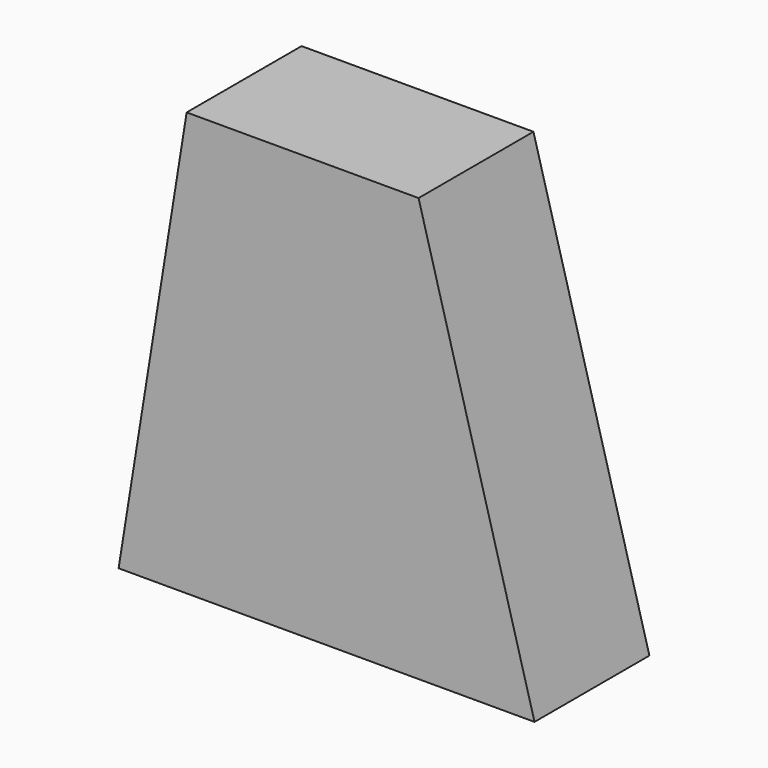
from build123d import *

# Parameters (mm, degrees)
F0_W     = 41.015632
F0_H     = 74.898109
F1_DEPTH = 25.4


with BuildPart() as f1:
    # F0 (on Front) → F1 (new body)
    with BuildSketch(Plane.XZ):
        with Locations((-25.85768, -5.349864)):
            Rectangle(F0_W, F0_H)
        Polygon((-58.402691, -42.798918), (-46.365496, -42.798918), (-46.365496, 32.099191), align=None)
        Polygon((-5.349864, 32.099191), (-5.349864, -42.798918), (6.687334, -42.798918), (15.157951, -42.798918), align=None)
    extrude(amount=F1_DEPTH)


solid = f1.part
